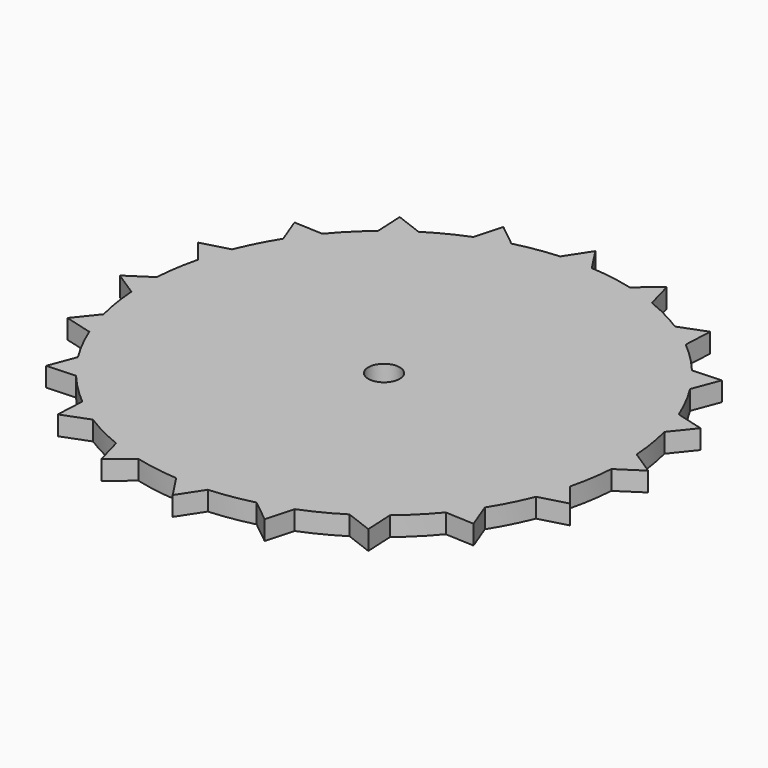
from build123d import *

# Parameters (mm, degrees)
F1_DEPTH = 3
F2_R     = 2.45
F3_DEPTH = 3


with BuildPart() as f1:
    # F0 (on Top) → F1 (new body)
    with BuildSketch(Plane.XY):
        with BuildLine():
            ThreePointArc((37.418773, -2.466863), (37.479688, -1.2341), (37.5, 0))
            ThreePointArc((37.5, 0), (37.479688, 1.2341), (37.418773, 2.466863))
            ThreePointArc((37.418773, 2.466863), (37.038313, 5.866292), (36.349671, 9.21691))
            ThreePointArc((36.349671, 9.21691), (35.664619, 11.588137), (34.825065, 13.909163))
            ThreePointArc((34.825065, 13.909163), (33.412745, 17.024644), (31.722409, 19.998469))
            ThreePointArc((31.722409, 19.998469), (30.338137, 22.041947), (28.822438, 23.989937))
            ThreePointArc((28.822438, 23.989937), (26.516504, 26.516504), (23.989937, 28.822438))
            ThreePointArc((23.989937, 28.822438), (22.041947, 30.338137), (19.998469, 31.722409))
            ThreePointArc((19.998469, 31.722409), (17.024644, 33.412745), (13.909163, 34.825065))
            ThreePointArc((13.909163, 34.825065), (11.588137, 35.664619), (9.21691, 36.349671))
            ThreePointArc((9.21691, 36.349671), (5.866292, 37.038313), (2.466863, 37.418773))
            ThreePointArc((2.466863, 37.418773), (0, 37.5), (-2.466863, 37.418773))
            ThreePointArc((-2.466863, 37.418773), (-5.866292, 37.038313), (-9.21691, 36.349671))
            ThreePointArc((-9.21691, 36.349671), (-11.588137, 35.664619), (-13.909163, 34.825065))
            ThreePointArc((-13.909163, 34.825065), (-17.024644, 33.412745), (-19.998469, 31.722409))
            ThreePointArc((-19.998469, 31.722409), (-22.041947, 30.338137), (-23.989937, 28.822438))
            ThreePointArc((-23.989937, 28.822438), (-26.516504, 26.516504), (-28.822438, 23.989937))
            ThreePointArc((-28.822438, 23.989937), (-30.338137, 22.041947), (-31.722409, 19.998469))
            ThreePointArc((-31.722409, 19.998469), (-33.412745, 17.024644), (-34.825065, 13.909163))
            ThreePointArc((-34.825065, 13.909163), (-35.664619, 11.588137), (-36.349671, 9.21691))
            ThreePointArc((-36.349671, 9.21691), (-37.038313, 5.866292), (-37.418773, 2.466863))
            ThreePointArc((-37.418773, 2.466863), (-37.5, 0), (-37.418773, -2.466863))
            ThreePointArc((-37.418773, -2.466863), (-37.038313, -5.866292), (-36.349671, -9.21691))
            ThreePointArc((-36.349671, -9.21691), (-35.664619, -11.588137), (-34.825065, -13.909163))
            ThreePointArc((-34.825065, -13.909163), (-33.412745, -17.024644), (-31.722409, -19.998469))
            ThreePointArc((-31.722409, -19.998469), (-30.338137, -22.041947), (-28.822438, -23.989937))
            ThreePointArc((-28.822438, -23.989937), (-26.516504, -26.516504), (-23.989937, -28.822438))
            ThreePointArc((-23.989937, -28.822438), (-22.041947, -30.338137), (-19.998469, -31.722409))
            ThreePointArc((-19.998469, -31.722409), (-17.024644, -33.412745), (-13.909163, -34.825065))
            ThreePointArc((-13.909163, -34.825065), (-11.588137, -35.664619), (-9.21691, -36.349671))
            ThreePointArc((-9.21691, -36.349671), (-5.866292, -37.038313), (-2.466863, -37.418773))
            ThreePointArc((-2.466863, -37.418773), (0, -37.5), (2.466863, -37.418773))
            ThreePointArc((2.466863, -37.418773), (5.866292, -37.038313), (9.21691, -36.349671))
            ThreePointArc((9.21691, -36.349671), (11.588137, -35.664619), (13.909163, -34.825065))
            ThreePointArc((13.909163, -34.825065), (17.024644, -33.412745), (19.998469, -31.722409))
            ThreePointArc((19.998469, -31.722409), (22.041947, -30.338137), (23.989937, -28.822438))
            ThreePointArc((23.989937, -28.822438), (26.516504, -26.516504), (28.822438, -23.989937))
            ThreePointArc((28.822438, -23.989937), (30.338137, -22.041947), (31.722409, -19.998469))
            ThreePointArc((31.722409, -19.998469), (33.412745, -17.024644), (34.825065, -13.909163))
            ThreePointArc((34.825065, -13.909163), (35.664619, -11.588137), (36.349671, -9.21691))
            ThreePointArc((36.349671, -9.21691), (37.038313, -5.866292), (37.418773, -2.466863))
        make_face()
        with BuildLine():
            ThreePointArc((37.418773, 2.466863), (37.479688, 1.2341), (37.5, 0))
            ThreePointArc((37.5, 0), (37.479688, -1.2341), (37.418773, -2.466863))
            Line((37.418773, -2.466863), (41.188397, 0))
            Line((41.188397, 0), (37.418773, 2.466863))
        make_face()
        with BuildLine():
            ThreePointArc((34.825065, 13.909163), (35.664619, 11.588137), (36.349671, 9.21691))
            Line((36.349671, 9.21691), (39.172493, 12.727915))
            Line((39.172493, 12.727915), (34.825065, 13.909163))
        make_face()
        with BuildLine():
            Line((39.172493, -12.727915), (36.349671, -9.21691))
            ThreePointArc((36.349671, -9.21691), (35.664619, -11.588137), (34.825065, -13.909163))
            Line((34.825065, -13.909163), (39.172493, -12.727915))
        make_face()
        with BuildLine():
            ThreePointArc((28.822438, 23.989937), (30.338137, 22.041947), (31.722409, 19.998469))
            Line((31.722409, 19.998469), (33.322113, 24.209932))
            Line((33.322113, 24.209932), (28.822438, 23.989937))
        make_face()
        with BuildLine():
            Line((33.322113, -24.209932), (31.722409, -19.998469))
            ThreePointArc((31.722409, -19.998469), (30.338137, -22.041947), (28.822438, -23.989937))
            Line((28.822438, -23.989937), (33.322113, -24.209932))
        make_face()
        with BuildLine():
            ThreePointArc((19.998469, 31.722409), (22.041947, 30.338137), (23.989937, 28.822438))
            Line((23.989937, 28.822438), (24.209932, 33.322113))
            Line((24.209932, 33.322113), (19.998469, 31.722409))
        make_face()
        with BuildLine():
            Line((24.209932, -33.322113), (23.989937, -28.822438))
            ThreePointArc((23.989937, -28.822438), (22.041947, -30.338137), (19.998469, -31.722409))
            Line((19.998469, -31.722409), (24.209932, -33.322113))
        make_face()
        with BuildLine():
            ThreePointArc((9.21691, 36.349671), (11.588137, 35.664619), (13.909163, 34.825065))
            Line((13.909163, 34.825065), (12.727915, 39.172493))
            Line((12.727915, 39.172493), (9.21691, 36.349671))
        make_face()
        with BuildLine():
            Line((12.727915, -39.172493), (13.909163, -34.825065))
            ThreePointArc((13.909163, -34.825065), (11.588137, -35.664619), (9.21691, -36.349671))
            Line((9.21691, -36.349671), (12.727915, -39.172493))
        make_face()
        with BuildLine():
            ThreePointArc((-2.466863, 37.418773), (0, 37.5), (2.466863, 37.418773))
            Line((2.466863, 37.418773), (0, 41.188397))
            Line((0, 41.188397), (-2.466863, 37.418773))
        make_face()
        with BuildLine():
            Line((0, -41.188397), (2.466863, -37.418773))
            ThreePointArc((2.466863, -37.418773), (0, -37.5), (-2.466863, -37.418773))
            Line((-2.466863, -37.418773), (0, -41.188397))
        make_face()
        with BuildLine():
            ThreePointArc((-13.909163, 34.825065), (-11.588137, 35.664619), (-9.21691, 36.349671))
            Line((-9.21691, 36.349671), (-12.727915, 39.172493))
            Line((-12.727915, 39.172493), (-13.909163, 34.825065))
        make_face()
        with BuildLine():
            Line((-12.727915, -39.172493), (-9.21691, -36.349671))
            ThreePointArc((-9.21691, -36.349671), (-11.588137, -35.664619), (-13.909163, -34.825065))
            Line((-13.909163, -34.825065), (-12.727915, -39.172493))
        make_face()
        with BuildLine():
            ThreePointArc((-23.989937, 28.822438), (-22.041947, 30.338137), (-19.998469, 31.722409))
            Line((-19.998469, 31.722409), (-24.209932, 33.322113))
            Line((-24.209932, 33.322113), (-23.989937, 28.822438))
        make_face()
        with BuildLine():
            Line((-24.209932, -33.322113), (-19.998469, -31.722409))
            ThreePointArc((-19.998469, -31.722409), (-22.041947, -30.338137), (-23.989937, -28.822438))
            Line((-23.989937, -28.822438), (-24.209932, -33.322113))
        make_face()
        with BuildLine():
            ThreePointArc((-31.722409, 19.998469), (-30.338137, 22.041947), (-28.822438, 23.989937))
            Line((-28.822438, 23.989937), (-33.322113, 24.209932))
            Line((-33.322113, 24.209932), (-31.722409, 19.998469))
        make_face()
        with BuildLine():
            Line((-33.322113, -24.209932), (-28.822438, -23.989937))
            ThreePointArc((-28.822438, -23.989937), (-30.338137, -22.041947), (-31.722409, -19.998469))
            Line((-31.722409, -19.998469), (-33.322113, -24.209932))
        make_face()
        with BuildLine():
            ThreePointArc((-36.349671, 9.21691), (-35.664619, 11.588137), (-34.825065, 13.909163))
            Line((-34.825065, 13.909163), (-39.172493, 12.727915))
            Line((-39.172493, 12.727915), (-36.349671, 9.21691))
        make_face()
        with BuildLine():
            Line((-39.172493, -12.727915), (-34.825065, -13.909163))
            ThreePointArc((-34.825065, -13.909163), (-35.664619, -11.588137), (-36.349671, -9.21691))
            Line((-36.349671, -9.21691), (-39.172493, -12.727915))
        make_face()
        with BuildLine():
            ThreePointArc((-37.418773, -2.466863), (-37.5, 0), (-37.418773, 2.466863))
            Line((-37.418773, 2.466863), (-41.188397, 0))
            Line((-41.188397, 0), (-37.418773, -2.466863))
        make_face()
    extrude(amount=F1_DEPTH)

    # F2 (on face) → F3 (cut)
    with BuildSketch(Plane.XY.offset(3)):
        Circle(F2_R)
    extrude(amount=-F3_DEPTH, mode=Mode.SUBTRACT)


solid = f1.part
